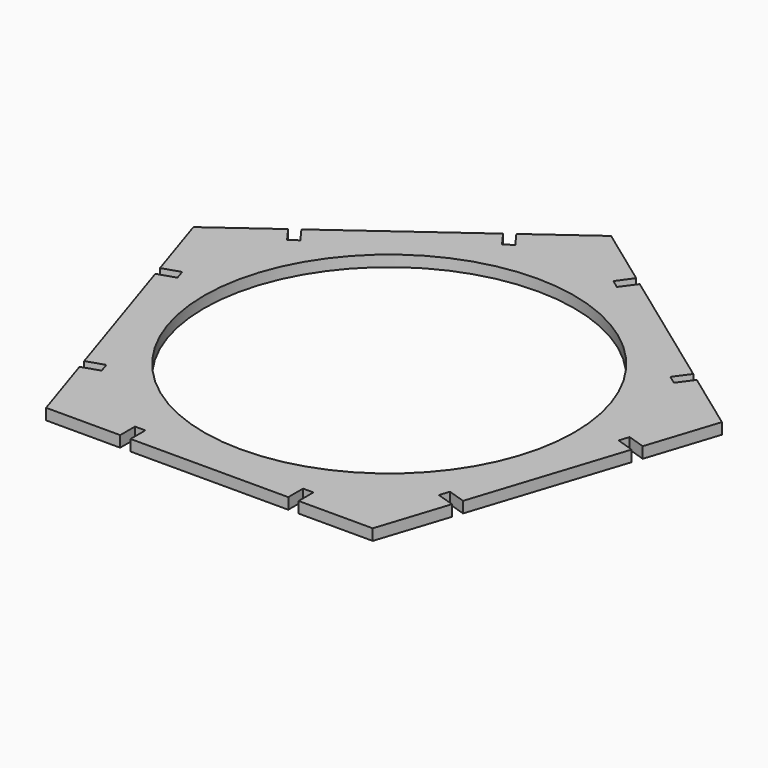
from build123d import *

# Parameters (mm, degrees)
F0_R     = 50
F1_DEPTH = 3


with BuildPart() as f1:
    # F0 (on Top) → F1 (new body)
    with BuildSketch(Plane.XY):
        Polygon((16.186687, 63.152809), (0, 74.899773), (-16.173988, 63.13533), (-13.232877, 59.091833), (-15.497236, 57.444811), (-18.438346, 61.488308), (-52.862891, 36.448993), (-49.92178, 32.405496), (-52.186139, 30.758474), (-55.127249, 34.801971), (-71.301237, 23.037529), (-65.110625, 4.019739), (-60.356177, 5.567392), (-59.489492, 2.904902), (-64.243939, 1.357249), (-51.067905, -39.120012), (-46.313457, -37.572359), (-45.446772, -40.23485), (-50.201219, -41.782503), (-44.010606, -60.800292), (-24.010609, -60.78949), (-24.01331, -55.789491), (-21.21331, -55.787978), (-21.21061, -60.787978), (21.357172, -60.764986), (21.354471, -55.764987), (24.154471, -55.763475), (24.157172, -60.763474), (44.157169, -60.752671), (50.327234, -41.728206), (45.571118, -40.185689), (46.434927, -37.522264), (51.191043, -39.064781), (64.323345, 1.42669), (59.567228, 2.969207), (60.431037, 5.632632), (65.187154, 4.090116), (71.357219, 23.114581), (55.170532, 34.861545), (52.233791, 30.814873), (49.967655, 32.459448), (52.904396, 36.50612), (18.452823, 61.508234), (15.516082, 57.461562), (13.249946, 59.106137), align=None)
        Circle(F0_R, mode=Mode.SUBTRACT)
    extrude(amount=F1_DEPTH)


solid = f1.part
